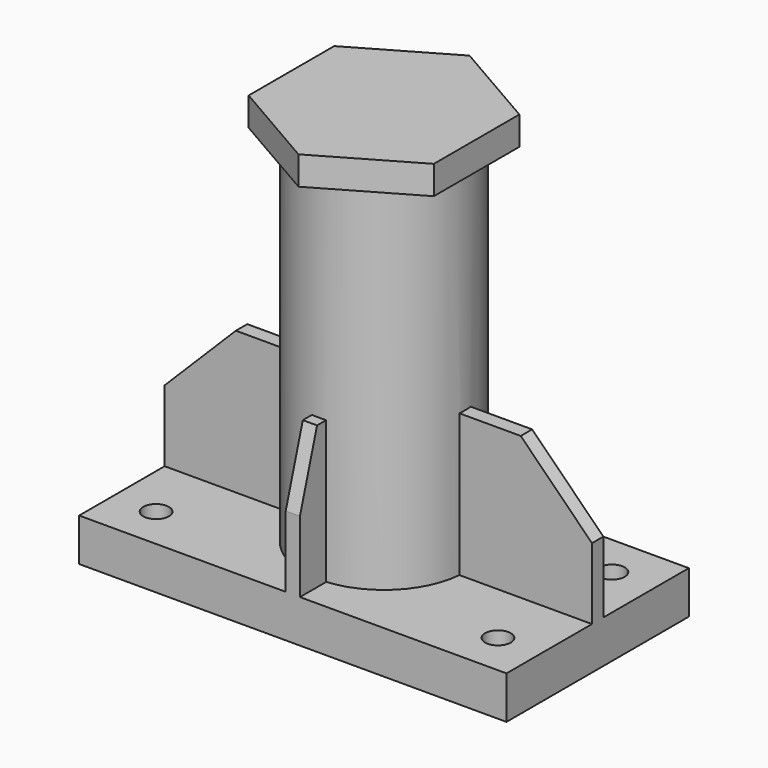
from build123d import *

# Parameters (mm, degrees)
EXTRUDE004_DEPTH      = 20
EXTRUDE001_DEPTH      = 5
SKETCH002_R           = 57.15
SKETCH002_R_2         = 47.15
EXTRUDE002_DEPTH      = 270
EXTRUDE003_DEPTH      = 5
CLONE_PLACEMENT_ANGLE = 180
SKETCH_W              = 300
SKETCH_H              = 160
SKETCH_R              = 9
EXTRUDE_DEPTH         = 30
FILLET_R              = 1


with BuildPart() as lastplatte:
    # Sketch004 (on Face26 of Fusion) → Extrude004 (new body)
    with BuildSketch(Plane.XY.offset(300)):
        Polygon((65, 37.527767), (0, 75.055535), (-65, 37.527767), (-65, -37.527767), (0, -75.055535), (65, -37.527767), align=None)
    extrude(amount=-EXTRUDE004_DEPTH)


with BuildPart() as obj1:
    # Sketch001 → Extrude001 (new body, symmetric)
    with BuildSketch(Plane.XZ):
        Polygon((150, 30), (-150, 30), (-150, 80), (-100, 130), (100, 130), (150, 80), align=None)
    extrude(amount=EXTRUDE001_DEPTH, both=True)


with BuildPart() as obj2:
    # Sketch002 (on Face10 of Extrude) → Extrude002 (new body)
    with BuildSketch(Plane.XY.offset(30)):
        Circle(SKETCH002_R)
        Circle(SKETCH002_R_2, mode=Mode.SUBTRACT)
    extrude(amount=EXTRUDE002_DEPTH)


with BuildPart() as obj3:
    # Sketch003 → Extrude003 (new body, symmetric)
    with BuildSketch(Plane.YZ):
        Polygon((-80, 30), (-80, 80), (-65, 130), (-5, 130), (-5, 30), align=None)
    extrude(amount=EXTRUDE003_DEPTH, both=True)


with BuildPart() as obj4:
    # Clone base: copy of obj3
    add(obj3.part)


with BuildPart() as obj4_1:
    # Clone placement: moved
    add(obj4.part.rotate(Axis((0, 0, 0), (0, 0, 1)), CLONE_PLACEMENT_ANGLE))


with BuildPart() as fillet_body:
    # Sketch → Extrude (new body)
    with BuildSketch(Plane.XY):
        Rectangle(SKETCH_W, SKETCH_H)
        with Locations((-120, 50)):
            Circle(SKETCH_R, mode=Mode.SUBTRACT)
        with Locations((120, 50)):
            Circle(SKETCH_R, mode=Mode.SUBTRACT)
        with Locations((120, -50)):
            Circle(SKETCH_R, mode=Mode.SUBTRACT)
        with Locations((-120, -50)):
            Circle(SKETCH_R, mode=Mode.SUBTRACT)
    extrude(amount=EXTRUDE_DEPTH)

    # Fusion: union obj1, obj2, obj3, obj4
    add(obj1.part)
    add(obj2.part)
    add(obj3.part)
    add(obj4_1.part)

    # Fusion001: union lastplatte
    add(lastplatte.part)

    # Fillet
    fillet_edges = [fillet_body.edges().sort_by_distance(p)[0] for p in [
        (-57.15, 0, 130),
    ]]
    fillet(fillet_edges, radius=FILLET_R)


solid = fillet_body.part
